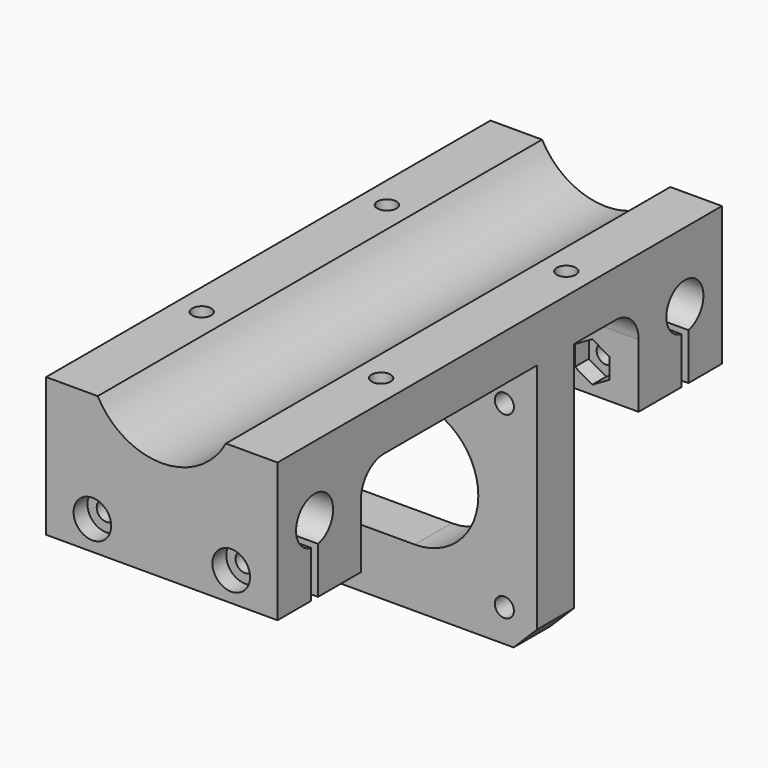
from build123d import *

# Parameters (mm, degrees)
F1_DEPTH             = 96
F3_DEPTH             = 40.001
F6_D                 = 3.3
F6_DEPTH             = 30
F6_CBORE_D           = 6.5
F6_CBORE_DEPTH       = 3
F6_TIP               = 0.9914200214
F6_ON_F4_D           = 3.3
F6_ON_F4_DEPTH       = 30
F6_ON_F4_CBORE_D     = 6.5
F6_ON_F4_CBORE_DEPTH = 3
F6_ON_F4_TIP         = 0.9914200214
F8_DEPTH             = 40.001
F10_DEPTH            = 3
F12_DEPTH            = 3
F14_DEPTH            = 3
F15_W                = 40
F15_H                = 8
F16_DEPTH            = 2
F17_R                = 1.65
F18_DEPTH            = 8
F20_SIZE             = 4
F22_DEPTH            = 64.001
F23_R                = 1.65
F24_DEPTH            = 25


with BuildPart() as f1:
    # F0 (on Front) → F1 (new body)
    with BuildSketch(Plane.XZ):
        with BuildLine():
            Line((0, 24), (0, 0))
            Line((0, 0), (40, 0))
            Line((40, 0), (40, 24))
            Line((40, 24), (31.0797111876, 24))
            ThreePointArc((31.0797111876, 24), (20, 17.4), (8.9202888124, 24))
            Line((8.9202888124, 24), (0, 24))
        make_face()
    extrude(amount=F1_DEPTH)

    # F2 (on face) → F3 (cut, through all)
    with BuildSketch(Plane.YZ.offset(40)):
        with BuildLine():
            Line((-87.25, 0), (-87.25, 8.0709415886))
            ThreePointArc((-87.25, 8.0709415886), (-88, 16), (-88.75, 8.0709415886))
            Line((-88.75, 8.0709415886), (-88.75, 0))
            Line((-88.75, 0), (-87.25, 0))
        make_face()
        with BuildLine():
            Line((-7.25, 0), (-7.25, 8.0709415886))
            ThreePointArc((-7.25, 8.0709415886), (-8, 16), (-8.75, 8.0709415886))
            Line((-8.75, 8.0709415886), (-8.75, 0))
            Line((-8.75, 0), (-7.25, 0))
        make_face()
    extrude(amount=-F3_DEPTH, mode=Mode.SUBTRACT)

    # F6
    with Locations(Plane.XZ.offset(96)):
        with Locations((8, 5), (32, 5)):
            CounterBoreHole(F6_D / 2, F6_CBORE_D / 2, F6_CBORE_DEPTH, depth=F6_DEPTH)
            with Locations((0, 0, -(F6_DEPTH + F6_TIP / 2))):  # 118° drill point
                Cone(0, F6_D / 2, F6_TIP, mode=Mode.SUBTRACT)

    # F6 on F4
    with Locations(Plane(origin=(0, 0, 0), x_dir=(-1, 0, 0), z_dir=(0, 1, 0))):
        with Locations((-8, 5), (-32, 5)):
            CounterBoreHole(F6_ON_F4_D / 2, F6_ON_F4_CBORE_D / 2, F6_ON_F4_CBORE_DEPTH, depth=F6_ON_F4_DEPTH)
            with Locations((0, 0, -(F6_ON_F4_DEPTH + F6_ON_F4_TIP / 2))):  # 118° drill point
                Cone(0, F6_ON_F4_D / 2, F6_ON_F4_TIP, mode=Mode.SUBTRACT)

    # F7 (on face) → F8 (cut, through all)
    with BuildSketch(Plane(origin=(0, 0, 0), x_dir=(0, -1, 0), z_dir=(-1, 0, 0))):
        with BuildLine():
            Line((18, 11), (18, 0))
            Line((18, 0), (78, 0))
            Line((78, 0), (78, 11))
            ThreePointArc((78, 11), (76.5355339059, 14.5355339059), (73, 16))
            Line((73, 16), (23, 16))
            ThreePointArc((23, 16), (19.4644660941, 14.5355339059), (18, 11))
        make_face()
    extrude(amount=-F8_DEPTH, mode=Mode.SUBTRACT)

    # F9 (on face) → F10 (cut)
    with BuildSketch(Plane(origin=(0, 0, 16), x_dir=(1, 0, 0), z_dir=(0, 0, -1))):
        Polygon((7.5, 66.2679491924), (7.5, 69.7320508076), (4.5, 71.4641016151), (1.5, 69.7320508076), (1.5, 66.2679491924), (4.5, 64.5358983849), align=None)
        Polygon((32.5, 69.7320508076), (32.5, 66.2679491924), (35.5, 64.5358983849), (38.5, 66.2679491924), (38.5, 69.7320508076), (35.5, 71.4641016151), align=None)
        Polygon((7.5, 26.2679491924), (7.5, 29.7320508076), (4.5, 31.4641016151), (1.5, 29.7320508076), (1.5, 26.2679491924), (4.5, 24.5358983849), align=None)
        Polygon((32.5, 29.7320508076), (32.5, 26.2679491924), (35.5, 24.5358983849), (38.5, 26.2679491924), (38.5, 29.7320508076), (35.5, 31.4641016151), align=None)
    extrude(amount=-F10_DEPTH, mode=Mode.SUBTRACT)

    # F11 (on face) → F12 (cut)
    with BuildSketch(Plane.XZ.offset(18)):
        Polygon((11, 3.2679491924), (11, 6.7320508076), (8, 8.4641016151), (5, 6.7320508076), (5, 3.2679491924), (8, 1.5358983849), align=None)
        Polygon((35, 3.2679491924), (35, 6.7320508076), (32, 8.4641016151), (29, 6.7320508076), (29, 3.2679491924), (32, 1.5358983849), align=None)
    extrude(amount=-F12_DEPTH, mode=Mode.SUBTRACT)

    # F13 (on face) → F14 (cut)
    with BuildSketch(Plane(origin=(0, -78, 0), x_dir=(-1, 0, 0), z_dir=(0, 1, 0))):
        Polygon((-35, 6.7320508076), (-35, 3.2679491924), (-32, 1.5358983849), (-29, 3.2679491924), (-29, 6.7320508076), (-32, 8.4641016151), align=None)
        Polygon((-11, 6.7320508076), (-11, 3.2679491924), (-8, 1.5358983849), (-5, 3.2679491924), (-5, 6.7320508076), (-8, 8.4641016151), align=None)
    extrude(amount=-F14_DEPTH, mode=Mode.SUBTRACT)

    # F15 (on face) → F16 (join)
    with BuildSketch(Plane(origin=(0, 0, 16), x_dir=(1, 0, 0), z_dir=(0, 0, -1))):
        with Locations((20, 36)):
            Rectangle(F15_W, F15_H)
    extrude(amount=F16_DEPTH)


with BuildPart() as f18:
    # F17 (on face) → F18 (new body)
    with BuildSketch(Plane.XZ.offset(40)):
        with BuildLine():
            Line((40, -28.2), (40, 14))
            Line((40, 14), (-2.2, 14))
            Line((-2.2, 14), (-2.2, 3.9))
            Line((-2.2, 3.9), (18.9, 3.9))
            ThreePointArc((18.9, 3.9), (29.9, -7.1), (18.9, -18.1))
            Line((18.9, -18.1), (-2.2, -18.1))
            Line((-2.2, -18.1), (-2.2, -28.2))
            Line((-2.2, -28.2), (40, -28.2))
        make_face()
        with Locations((3.4, -22.6)):
            Circle(F17_R, mode=Mode.SUBTRACT)
        with Locations((34.4, -22.6)):
            Circle(F17_R, mode=Mode.SUBTRACT)
        with Locations((3.4, 8.4)):
            Circle(F17_R, mode=Mode.SUBTRACT)
        with Locations((34.4, 8.4)):
            Circle(F17_R, mode=Mode.SUBTRACT)
    extrude(amount=-F18_DEPTH)


with BuildPart() as f1_1:
    add(f1.part)

    # F19: union F18
    add(f18.part)

    # F20
    f20_edges = [f1_1.edges().sort_by_distance(p)[0] for p in [
        (-2.2, -36, -28.2),
        (40, -36, -28.2),
    ]]
    chamfer(f20_edges, length=F20_SIZE)

    # F21 (on face) → F22 (cut, through all)
    with BuildSketch(Plane(origin=(0, -32, 0), x_dir=(-1, 0, 0), z_dir=(0, 1, 0))):
        Polygon((0, 15), (0, 14), (0, 12.2), (2.2, 10), (3.2, 10), (3.2, 15), align=None)
    extrude(amount=-F22_DEPTH, mode=Mode.SUBTRACT)

    # F23 (on face) → F24 (cut)
    with BuildSketch(Plane(origin=(0, 0, 16), x_dir=(1, 0, 0), z_dir=(0, 0, -1))):
        with Locations((35.5, 68)):
            Circle(F23_R)
        with Locations((4.5, 68)):
            Circle(F23_R)
        with Locations((35.5, 28)):
            Circle(F23_R)
        with Locations((4.5, 28)):
            Circle(F23_R)
    extrude(amount=-F24_DEPTH, mode=Mode.SUBTRACT)


solid = f1_1.part
